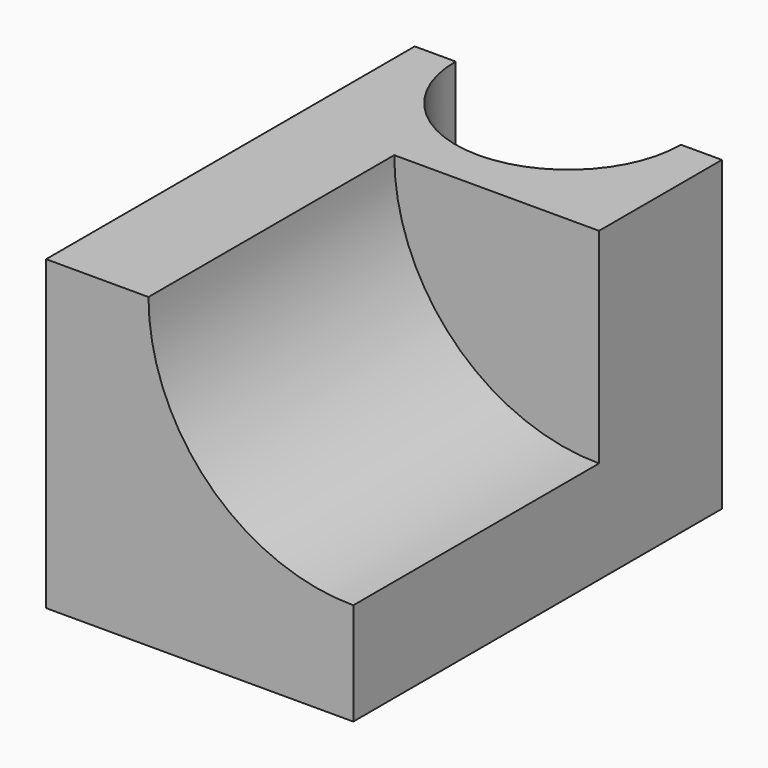
from build123d import *

# Parameters (mm, degrees)
F1_DEPTH = 90
F2_DEPTH = 60
F4_DEPTH = 60.001


with BuildPart() as f1:
    # F0 (on Front) → F1 (new body)
    with BuildSketch(Plane.XZ):
        with BuildLine():
            Line((0, 0), (-20, 0))
            Line((-20, 0), (-20, -60))
            Line((-20, -60), (40, -60))
            Line((40, -60), (40, -40))
            ThreePointArc((40, -40), (11.715729, -28.284271), (0, 0))
        make_face()
        with BuildLine():
            Line((40, 0), (0, 0))
            ThreePointArc((0, 0), (11.715729, -28.284271), (40, -40))
            Line((40, -40), (40, 0))
        make_face()
    extrude(amount=-F1_DEPTH)

    # F0 (on Front) → F2 (cut)
    with BuildSketch(Plane.XZ):
        with BuildLine():
            Line((40, 0), (0, 0))
            ThreePointArc((0, 0), (11.715729, -28.284271), (40, -40))
            Line((40, -40), (40, 0))
        make_face()
    extrude(amount=-F2_DEPTH, mode=Mode.SUBTRACT)

    # F3 (on face) → F4 (cut, through all)
    with BuildSketch(Plane.XY):
        with BuildLine():
            Line((32, 90), (-12, 90))
            ThreePointArc((-12, 90), (10, 68), (32, 90))
        make_face()
    extrude(amount=-F4_DEPTH, mode=Mode.SUBTRACT)


solid = f1.part
